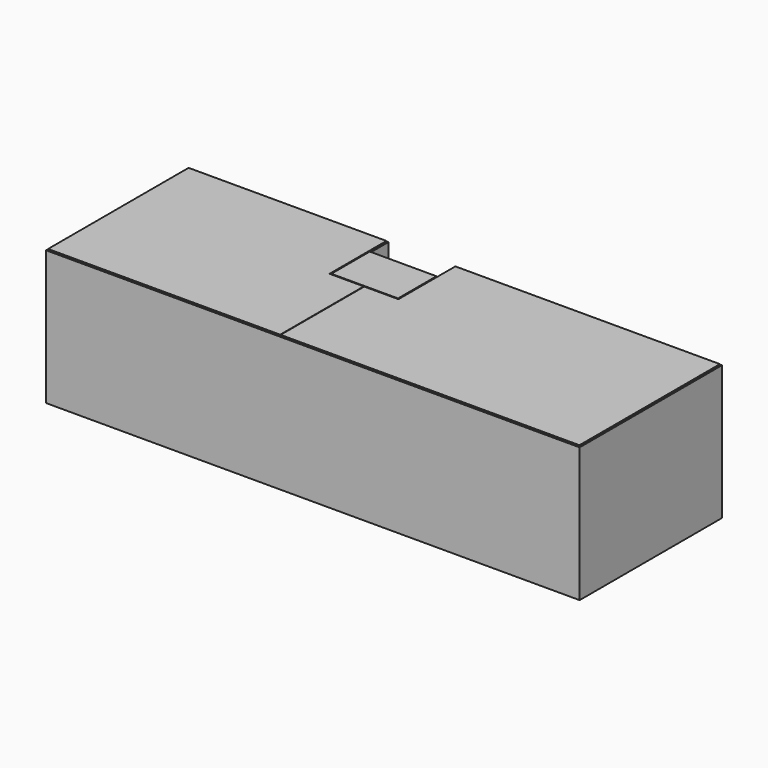
from build123d import *

# Parameters (mm, degrees)
F1_DEPTH  = 25
F2_W      = 10
F2_H      = 2350
F3_DEPTH  = 3000
F4_W      = 900
F4_H      = 2200
F5_DEPTH  = 25
F6_W      = 900
F6_H      = 2200
F7_DEPTH  = 25
F8_W      = 600
F8_H      = 300
F9_DEPTH  = 1200
F8_W_2    = 800
F8_W_3    = 1000
F8_H_2    = 500
F8_W_4    = 1200
F8_H_3    = 400
F8_W_5    = 1500
F8_H_4    = 600
F8_W_6    = 1100
F11_DEPTH = 25
F10_W     = 1500
F10_H     = 1080


with BuildPart() as f1:
    # F0 (on Top) → F1 (new body)
    with BuildSketch(Plane.XY):
        Polygon((4500, 4000), (0, 4000), (0, 0), (12000, 0), (12000, 4000), (6000, 4000), (6000, 3500), (4500, 3500), align=None)
    extrude(amount=F1_DEPTH)

    # F2 (on face) → F3 (join)
    with BuildSketch(Plane.XY.offset(25)):
        Polygon((4500, 3500), (4500, 4000), (0, 4000), (0, 0), (12000, 0), (12000, 4000), (6000, 4000), (6000, 3500), align=None)
        Polygon((5245, 25), (25, 25), (25, 3975), (4475, 3975), (4475, 3475), (4500, 3475), (6000, 3475), (6025, 3475), (6025, 3975), (11975, 3975), (11975, 25), (5255, 25), align=None, mode=Mode.SUBTRACT)
        Polygon((4475, 2375), (5245, 2375), (5255, 2375), (6025, 2375), (6025, 3475), (6000, 3475), (6000, 2395), (4500, 2395), (4500, 3475), (4475, 3475), align=None)
        with Locations((5250, 1200)):
            Rectangle(F2_W, F2_H)
    extrude(amount=F3_DEPTH)

    # F4 (on face) → F5 (cut, through all)
    with BuildSketch(Plane.YZ.offset(4500)):
        with Locations((2935, 1125)):
            Rectangle(F4_W, F4_H)
    extrude(amount=-F5_DEPTH, mode=Mode.SUBTRACT)

    # F6 (on face) → F7 (cut, through all)
    with BuildSketch(Plane(origin=(6000, 0, 0), x_dir=(0, -1, 0), z_dir=(-1, 0, 0))):
        with Locations((-2935, 1125)):
            Rectangle(F6_W, F6_H)
    extrude(amount=-F7_DEPTH, mode=Mode.SUBTRACT)


with BuildPart() as f9:
    # F8 (on face) → F9 (new body)
    with BuildSketch(Plane.XY.offset(25)):
        with Locations((425, 3825)):
            Rectangle(F8_W, F8_H)
    extrude(amount=F9_DEPTH)


with BuildPart() as f9b:
    # F8 (on face) → F9, piece 2 (new body)
    with BuildSketch(Plane.XY.offset(25)):
        with Locations((1625, 3825)):
            Rectangle(F8_W_2, F8_H)
    extrude(amount=F9_DEPTH)


with BuildPart() as f9c:
    # F8 (on face) → F9, piece 3 (new body)
    with BuildSketch(Plane.XY.offset(25)):
        with Locations((3275, 3725)):
            Rectangle(F8_W_3, F8_H_2)
    extrude(amount=F9_DEPTH)


with BuildPart() as f9d:
    # F8 (on face) → F9, piece 4 (new body)
    with BuildSketch(Plane.XY.offset(25)):
        with Locations((825, 225)):
            Rectangle(F8_W_4, F8_H_3)
    extrude(amount=F9_DEPTH)


with BuildPart() as f9e:
    # F8 (on face) → F9, piece 5 (new body)
    with BuildSketch(Plane.XY.offset(25)):
        with Locations((8005, 325)):
            Rectangle(F8_W_5, F8_H_4)
    extrude(amount=F9_DEPTH)


with BuildPart() as f9f:
    # F8 (on face) → F9, piece 6 (new body)
    with BuildSketch(Plane.XY.offset(25)):
        with Locations((7475, 3825)):
            Rectangle(F8_W_6, F8_H)
    extrude(amount=F9_DEPTH)


with BuildPart() as f11:
    # F10 (on face) → F11 (new body)
    with BuildSketch(Plane.XY.offset(3025)):
        Polygon((6025, 2375), (5255, 2375), (5255, 25), (11975, 25), (11975, 3975), (6025, 3975), align=None)
    extrude(amount=F11_DEPTH)


with BuildPart() as f11b:
    # F10 (on face) → F11, piece 2 (new body)
    with BuildSketch(Plane.XY.offset(3025)):
        Polygon((25, 3975), (25, 25), (5245, 25), (5245, 2375), (4475, 2375), (4475, 3975), align=None)
    extrude(amount=F11_DEPTH)


with BuildPart() as f11c:
    # F10 (on face) → F11, piece 3 (new body)
    with BuildSketch(Plane.XY.offset(3025)):
        with Locations((5250, 2935)):
            Rectangle(F10_W, F10_H)
    extrude(amount=F11_DEPTH)


solid = Compound([f1.part, f9.part, f9b.part, f9c.part, f9d.part, f9e.part, f9f.part, f11.part, f11b.part, f11c.part])
